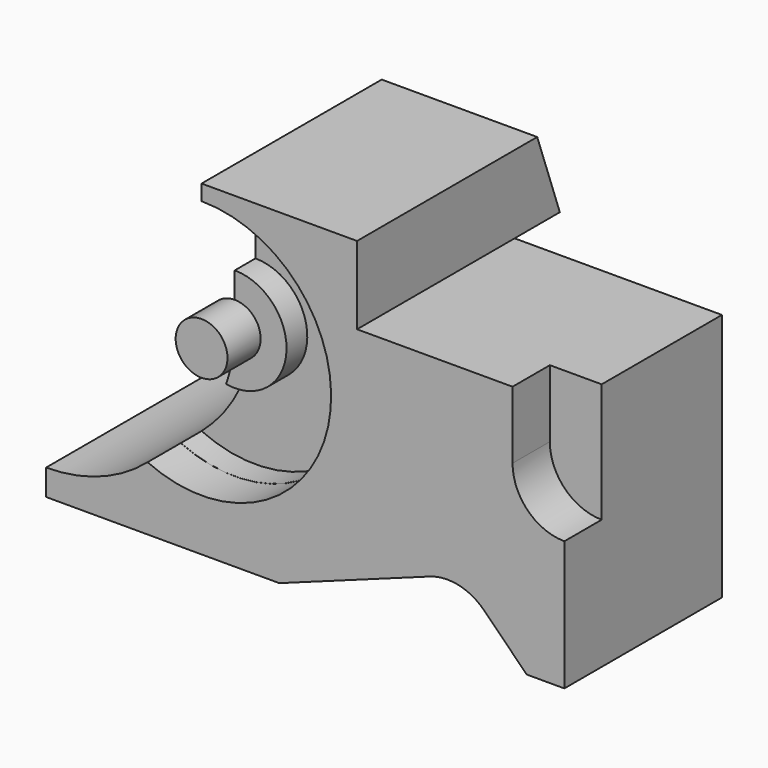
from build123d import *

# Parameters (mm, degrees)
F0_W      = 100
F0_H      = 63
F1_DEPTH  = 50
F2_W      = 40
F2_H      = 15
F3_DEPTH  = 50
F5_DEPTH  = 9
F6_R      = 10
F7_W      = 50
F7_H      = 12
F8_DEPTH  = 48.001
F10_DEPTH = 50
F11_R     = 25
F12_DEPTH = 8
F13_R     = 24.9809
F13_R_2   = 10
F14_DEPTH = 5
F15_R     = 5
F16_DEPTH = 8
F18_DEPTH = 70.001


with BuildPart() as f1:
    # F0 (on Front) → F1 (new body)
    with BuildSketch(Plane.XZ):
        with Locations((50, 31.5)):
            Rectangle(F0_W, F0_H)
    extrude(amount=F1_DEPTH)

    # F2 (on face) → F3 (cut, through all)
    with BuildSketch(Plane.XZ.offset(50)):
        with Locations((80, 55.5)):
            Rectangle(F2_W, F2_H)
        Polygon((80, 12.7389581993), (45, 0), (92.7389581993, 0), align=None)
    extrude(amount=-F3_DEPTH, mode=Mode.SUBTRACT)

    # F4 (on face) → F5 (cut)
    with BuildSketch(Plane.XZ.offset(50)):
        with BuildLine():
            Line((100, 25), (100, 48))
            Line((100, 48), (90, 48))
            Line((90, 48), (90, 35))
            ThreePointArc((90, 35), (92.9289321881, 27.9289321881), (100, 25))
        make_face()
    extrude(amount=-F5_DEPTH, mode=Mode.SUBTRACT)

    # F6
    f6_edges = [f1.edges().sort_by_distance(p)[0] for p in [
        (80, -25, 12.738958),
    ]]
    fillet(f6_edges, radius=F6_R)

    # F7 (on face) → F8 (cut, through all)
    with BuildSketch(Plane.XY.offset(48)):
        with Locations((75, -6)):
            Rectangle(F7_W, F7_H)
    extrude(amount=-F8_DEPTH, mode=Mode.SUBTRACT)

    # F9 (on face) → F10 (cut, through all)
    with BuildSketch(Plane(origin=(0, 0, 0), x_dir=(-1, 0, 0), z_dir=(0, 1, 0))):
        with BuildLine():
            Line((-30, 63), (-30, 35))
            ThreePointArc((-30, 35), (-21.2132034356, 13.7867965644), (0, 5))
            Line((0, 5), (0, 63))
            Line((0, 63), (-30, 63))
        make_face()
    extrude(amount=-F10_DEPTH, mode=Mode.SUBTRACT)

    # F11 (on face) → F12 (cut)
    with BuildSketch(Plane.XZ.offset(50)):
        with Locations((30, 35)):
            Circle(F11_R)
    extrude(amount=-F12_DEPTH, mode=Mode.SUBTRACT)

    # F13 (on face) → F14 (cut)
    with BuildSketch(Plane.XZ.offset(42)):
        with Locations((30, 35)):
            Circle(F13_R)
        with Locations((30, 35)):
            Circle(F13_R_2, mode=Mode.SUBTRACT)
    extrude(amount=-F14_DEPTH, mode=Mode.SUBTRACT)

    # F15 (on face) → F16 (join, through all)
    with BuildSketch(Plane.XZ.offset(42)):
        with Locations((30, 35)):
            Circle(F15_R)
    extrude(amount=F16_DEPTH)

    # F17 (on face) → F18 (cut, through all)
    with BuildSketch(Plane(origin=(30, 0, 0), x_dir=(0, -1, 0), z_dir=(-1, 0, 0))):
        Polygon((6.5514642168, 63), (0, 63), (0, 45), align=None)
    extrude(amount=-F18_DEPTH, mode=Mode.SUBTRACT)


solid = f1.part
